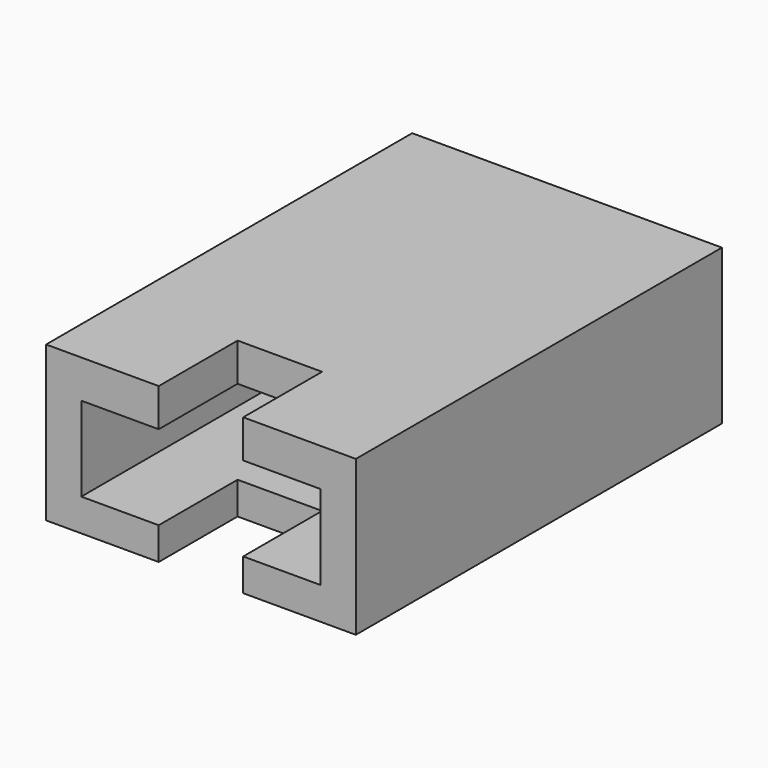
from build123d import *

# Parameters (mm, degrees)
BOX310_W     = 3.4
BOX310_H     = 6.5
BOX310_DEPTH = 1.2
BOX309_W     = 3.4
BOX309_H     = 6.5
BOX309_DEPTH = 1.2
BOX308_W     = 4.4
BOX308_H     = 6.5
BOX308_DEPTH = 2.2


with BuildPart() as cubo295:
    # Box310 → Box310 (new body)
    with BuildSketch(Plane(origin=(15.8, -32, 13), x_dir=(0, 0, -1), z_dir=(1, 0, 0))):
        with Locations((1.7, 3.25)):
            Rectangle(BOX310_W, BOX310_H)
    extrude(amount=BOX310_DEPTH)


with BuildPart() as cubo294:
    # Box309 → Box309 (new body)
    with BuildSketch(Plane(origin=(14.7, -27, 10.26), x_dir=(1, 0, 0), z_dir=(0, 0, 1))):
        with Locations((1.7, 3.25)):
            Rectangle(BOX309_W, BOX309_H)
    extrude(amount=BOX309_DEPTH)


with BuildPart() as obj1:
    # Box308 → Box308 (new body)
    with BuildSketch(Plane(origin=(14.2, -26.9, 9.8), x_dir=(1, 0, 0), z_dir=(0, 0, 1))):
        with Locations((2.2, 3.25)):
            Rectangle(BOX308_W, BOX308_H)
    extrude(amount=BOX308_DEPTH)

    # Cut350: cut Cubo294
    add(cubo294.part, mode=Mode.SUBTRACT)

    # Cut351: cut Cubo295
    add(cubo295.part, mode=Mode.SUBTRACT)


with BuildPart() as obj1_1:
    # Cut351 placement: moved
    add(obj1.part.moved(Location((-2.4, 0, -2.4))))


solid = obj1_1.part
